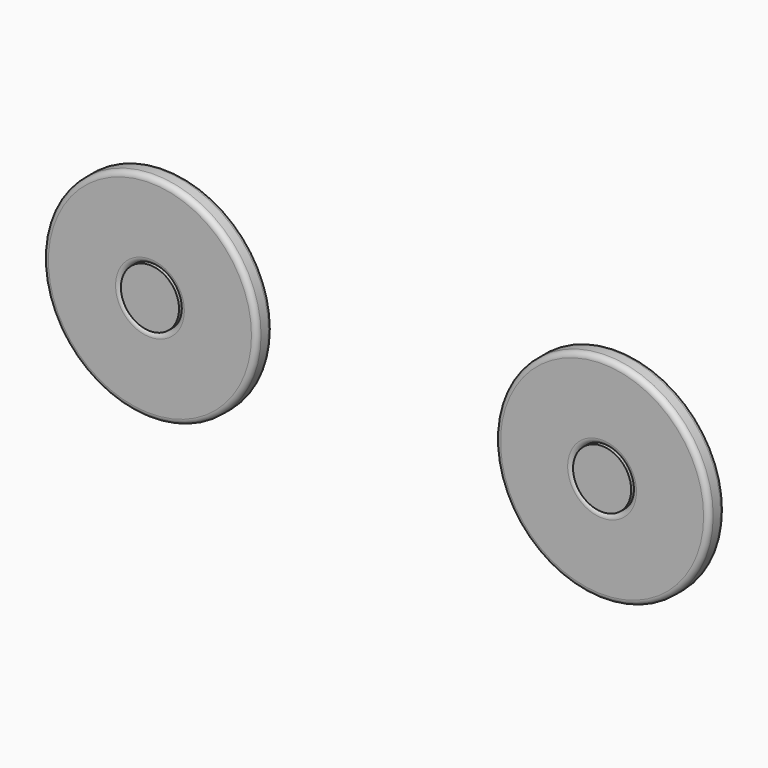
from build123d import *

# Parameters (mm, degrees)
F0_R     = 11.025
F0_R_2   = 3
F1_DEPTH = 2
F2_R     = 0.5
F3_DEPTH = 4
F4_R     = 0.55


with BuildPart() as f1:
    # F0 (on Front) → F1 (new body)
    with BuildSketch(Plane.XZ):
        with Locations((-19.84116, 53.615939)):
            Circle(F0_R)
        with Locations((-19.84116, 53.615939)):
            Circle(F0_R_2, mode=Mode.SUBTRACT)
        with Locations((-66.491679, 54.876422)):
            Circle(F0_R)
        with Locations((-66.491679, 54.876422)):
            Circle(F0_R_2, mode=Mode.SUBTRACT)
    extrude(amount=-F1_DEPTH)

    # F2
    f2_edges = [f1.edges().sort_by_distance(p)[0] for p in [
        (-30.86616, 2, 53.615939),
        (-77.516679, 2, 54.876422),
    ]]
    fillet(f2_edges, radius=F2_R)

    # F4
    f4_edges = [f1.edges().sort_by_distance(p)[0] for p in [
        (-77.516679, 0, 54.876422),
        (-69.491679, 0, 54.876422),
        (-30.86616, 0, 53.615939),
        (-22.84116, 0, 53.615939),
    ]]
    fillet(f4_edges, radius=F4_R)


with BuildPart() as f3:
    # F0 (on Front) → F3 (new body)
    with BuildSketch(Plane.XZ):
        with Locations((-66.491679, 54.876422)):
            Circle(F0_R_2)
        with Locations((-19.84116, 53.615939)):
            Circle(F0_R_2)
    extrude(amount=-F3_DEPTH)


solid = Compound([f1.part, f3.part])
